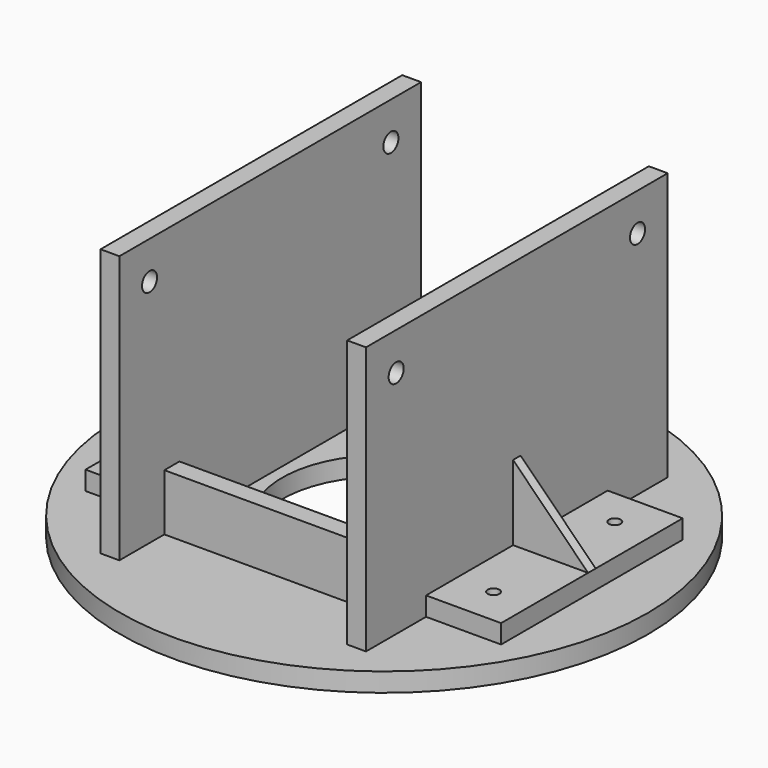
from build123d import *

# Parameters (mm, degrees)
F1_W      = 20
F1_H      = 60.2
F1_R      = 1.55
F2_DEPTH  = 5
F4_W      = 5
F4_H      = 100
F5_DEPTH  = 71
F6_R      = 2.5
F7_DEPTH  = 90.301
F8_W      = 60.4
F8_H      = 5
F9_DEPTH  = 15
F11_DEPTH = 1.25
F13_R     = 70
F13_R_2   = 1.55
F13_R_3   = 2.55
F13_R_4   = 27.05
F14_DEPTH = 5


with BuildPart() as f2:
    # F1 (on Top) → F2 (new body)
    with BuildSketch(Plane.XY):
        with Locations((-45.1, 0)):
            Rectangle(F1_W, F1_H)
        with Locations((-45.1, -20.1)):
            Circle(F1_R, mode=Mode.SUBTRACT)
        with Locations((-45.1, 20.1)):
            Circle(F1_R, mode=Mode.SUBTRACT)
    extrude(amount=F2_DEPTH)



with BuildPart() as f5:
    # F4 (on Top) → F5 (new body)
    with BuildSketch(Plane.XY):
        with Locations((32.7, 0)):
            Rectangle(F4_W, F4_H)
    extrude(amount=F5_DEPTH)


with BuildPart() as f5b:
    # F4 (on Top) → F5, piece 2 (new body)
    with BuildSketch(Plane.XY):
        with Locations((-32.7, 0)):
            Rectangle(F4_W, F4_H)
    extrude(amount=F5_DEPTH)


with BuildPart() as f7_tool:
    # F6 (on face) → F7 (new body, through all)
    with BuildSketch(Plane.YZ.offset(35.2)):
        with Locations((-40, 61)):
            Circle(F6_R)
        with Locations((40, 61)):
            Circle(F6_R)
    extrude(amount=-F7_DEPTH)


with BuildPart() as f5_1:
    add(f5.part)

    # F7: cut by f7_tool
    add(f7_tool.part, mode=Mode.SUBTRACT)



with BuildPart() as f5b_1:
    add(f5b.part)

    # F7: cut by f7_tool
    add(f7_tool.part, mode=Mode.SUBTRACT)


with BuildPart() as f5_2:
    add(f5_1.part)

    add(f5b_1.part)  # F9 merges F5b
    # F8 (on Top) → F9 (join)
    with BuildSketch(Plane.XY):
        with Locations((0, 32.6)):
            Rectangle(F8_W, F8_H)
        with Locations((0, -32.6)):
            Rectangle(F8_W, F8_H)
    extrude(amount=F9_DEPTH)


with BuildPart() as f2_1:
    add(f2.part)

    add(f5_2.part)  # F11 merges F5
    # F10 (on Front) → F11 (join, symmetric)
    with BuildSketch(Plane.XZ):
        Polygon((-35.2, 24.9), (-55.1, 5), (-35.2, 5), align=None)
    extrude(amount=F11_DEPTH, both=True)

    # F12: F2 across plane


with BuildPart() as f2_2:
    add(f2_1.part)
    add(f2_1.part.mirror(Plane.YZ))


with BuildPart() as f14:
    # F13 (on Top) → F14 (new body)
    with BuildSketch(Plane.XY):
        Circle(F13_R)
        with Locations((-45.1, -20.1)):
            Circle(F13_R_2, mode=Mode.SUBTRACT)
        with Locations((-24.75, -24.75)):
            Circle(F13_R_3, mode=Mode.SUBTRACT)
        with Locations((24.75, -24.75)):
            Circle(F13_R_3, mode=Mode.SUBTRACT)
        with Locations((45.1, -20.1)):
            Circle(F13_R_2, mode=Mode.SUBTRACT)
        with Locations((-45.1, 20.1)):
            Circle(F13_R_2, mode=Mode.SUBTRACT)
        with Locations((-24.75, 24.75)):
            Circle(F13_R_3, mode=Mode.SUBTRACT)
        Circle(F13_R_4, mode=Mode.SUBTRACT)
        with Locations((24.75, 24.75)):
            Circle(F13_R_3, mode=Mode.SUBTRACT)
        with Locations((45.1, 20.1)):
            Circle(F13_R_2, mode=Mode.SUBTRACT)
    extrude(amount=-F14_DEPTH)


solid = Compound([f2_2.part, f14.part])
